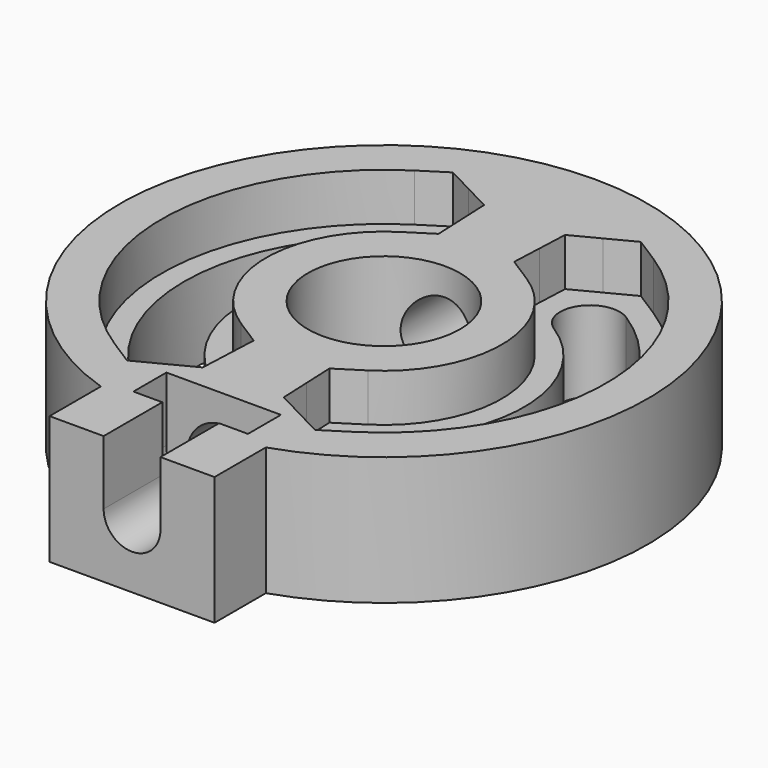
from build123d import *

# Parameters (mm, degrees)
SKETCH_R        = 4.15
EXTRUDE_DEPTH   = 7
SKETCH001_R     = 1.55
POCKET_DEPTH    = 4
SKETCH002_R     = 2
POCKET001_DEPTH = 27.5798157383
POCKET002_DEPTH = 3.5
POCKET003_DEPTH = 2.25
POCKET004_DEPTH = 2.6


with BuildPart() as part:
    # Sketch → Extrude (new body)
    with BuildSketch(Plane.XY):
        with BuildLine():
            ThreePointArc((4.5, -13.6788157382), (0, 14.4), (-4.5, -13.6788157382))
            Line((-4.5, -13.6788157382), (-4.5, -17.1788157382))
            Line((-4.5, -17.1788157382), (4.5, -17.1788157382))
            Line((4.5, -17.1788157382), (4.5, -13.6788157382))
        make_face()
        Circle(SKETCH_R, mode=Mode.SUBTRACT)
        with BuildLine():
            ThreePointArc((-4.1103420039, 6.4519445605), (-7.65, 0), (-4.1103420039, -6.4519445605))
            ThreePointArc((-5.856565731, -9.1929667594), (-3.612942768, -8.6955675235), (-4.1103420039, -6.4519445605))
            ThreePointArc((-5.856565731, 9.1929667594), (-10.9, 0), (-5.856565731, -9.1929667594))
            ThreePointArc((-4.1103420039, 6.4519445605), (-3.612942768, 8.6955675235), (-5.856565731, 9.1929667594))
        make_face(mode=Mode.SUBTRACT)
        with BuildLine():
            ThreePointArc((4.1103420039, -6.4519445605), (7.65, 0), (4.1103420039, 6.4519445605))
            ThreePointArc((5.856565731, 9.1929667594), (3.612942768, 8.6955675235), (4.1103420039, 6.4519445605))
            ThreePointArc((5.856565731, -9.1929667594), (10.9, 0), (5.856565731, 9.1929667594))
            ThreePointArc((4.1103420039, -6.4519445605), (3.612942768, -8.6955675235), (5.856565731, -9.1929667594))
        make_face(mode=Mode.SUBTRACT)
    extrude(amount=EXTRUDE_DEPTH)

    # Sketch001 → Pocket (cut)
    with BuildSketch(Plane.XZ.offset(17.1788157382)):
        with Locations((0, 3.5)):
            Circle(SKETCH001_R)
    extrude(amount=-POCKET_DEPTH, mode=Mode.SUBTRACT)

    # Sketch002 → Pocket001 (cut, through all)
    with BuildSketch(Plane.XZ.offset(13.1788157382)):
        with Locations((0, 3.5)):
            Circle(SKETCH002_R)
    extrude(amount=-POCKET001_DEPTH, mode=Mode.SUBTRACT)

    # Sketch003 → Pocket002 (cut)
    with BuildSketch(Plane.XY.offset(7)):
        Polygon((1.55, -17.1788157382), (-1.55, -17.1788157382), (-1.55, -13.1788157382), (-3.125, -13.1788157382), (-3.125, -10.9288157382), (3.125, -10.9288157382), (3.125, -13.1788157382), (1.55, -13.1788157382), align=None)
    extrude(amount=-POCKET002_DEPTH, mode=Mode.SUBTRACT)

    # Sketch004 → Pocket003 (cut)
    with BuildSketch(Plane.XZ.offset(10.9288157382)):
        with BuildLine():
            Line((-3.125, 3.5), (3.125, 3.5))
            ThreePointArc((-3.125, 3.5), (0, 0.375), (3.125, 3.5))
        make_face()
    extrude(amount=POCKET003_DEPTH, mode=Mode.SUBTRACT)

    # Sketch005 → Pocket004 (cut)
    with BuildSketch(Plane.XY.offset(7)):
        with BuildLine():
            ThreePointArc((-3.4521499836, 5.4187900393), (-6.425, 0), (-3.4521499836, -5.4187900393))
            Line((-3.4521499836, -5.4187900393), (-2.064393013, -6.3028887726))
            Line((-2.064393013, -6.3028887726), (-2.1361664367, -7.9467709324))
            Line((-2.1361664367, -7.9467709324), (-2.2079398605, -9.5906530922))
            Line((-2.2079398605, -9.5906530922), (-3.6674703033, -10.3504365259))
            Line((-3.6674703033, -10.3504365259), (-5.1270007461, -11.1102199597))
            Line((-5.1270007461, -11.1102199597), (-6.5147577512, -10.2261212805))
            ThreePointArc((-6.5147577512, 10.2261212805), (-12.125, 0), (-6.5147577512, -10.2261212805))
            Line((-6.5147577512, 10.2261212805), (-5.1270007739, 11.1102200297))
            Line((-5.1270007739, 11.1102200297), (-3.6674703412, 10.3504365457))
            Line((-3.6674703412, 10.3504365457), (-2.2079399085, 9.5906530616))
            Line((-2.2079399085, 9.5906530616), (-2.1361664349, 7.9467708897))
            Line((-2.1361664349, 7.9467708897), (-2.0643929612, 6.3028887178))
            Line((-2.0643929612, 6.3028887178), (-3.4521499836, 5.4187900393))
        make_face()
        with BuildLine():
            ThreePointArc((3.4521499836, -5.4187900393), (6.425, 0), (3.4521499836, 5.4187900393))
            Line((3.4521499836, 5.4187900393), (2.0643912497, 6.3028869075))
            Line((2.0643912497, 6.3028869075), (2.1361663732, 7.9467694786))
            Line((2.1361663732, 7.9467694786), (2.2079414968, 9.5906520497))
            Line((2.2079414968, 9.5906520497), (3.667471594, 10.3504371978))
            Line((3.667471594, 10.3504371978), (5.1270016912, 11.110222346))
            Line((5.1270016912, 11.110222346), (6.5147577512, 10.2261212805))
            ThreePointArc((6.5147577512, -10.2261212805), (12.125, 0), (6.5147577512, 10.2261212805))
            Line((5.1270027116, -11.1102249223), (6.5147577512, -10.2261212805))
            Line((3.6674729876, -10.3504379233), (5.1270027116, -11.1102249223))
            Line((2.2079432635, -9.5906509242), (3.6674729876, -10.3504379233))
            Line((2.1361663047, -7.9467679091), (2.2079432635, -9.5906509242))
            Line((2.0643893459, -6.3028848939), (2.1361663047, -7.9467679091))
            Line((3.4521499836, -5.4187900393), (2.0643893459, -6.3028848939))
        make_face()
    extrude(amount=-POCKET004_DEPTH, mode=Mode.SUBTRACT)


solid = part.part
